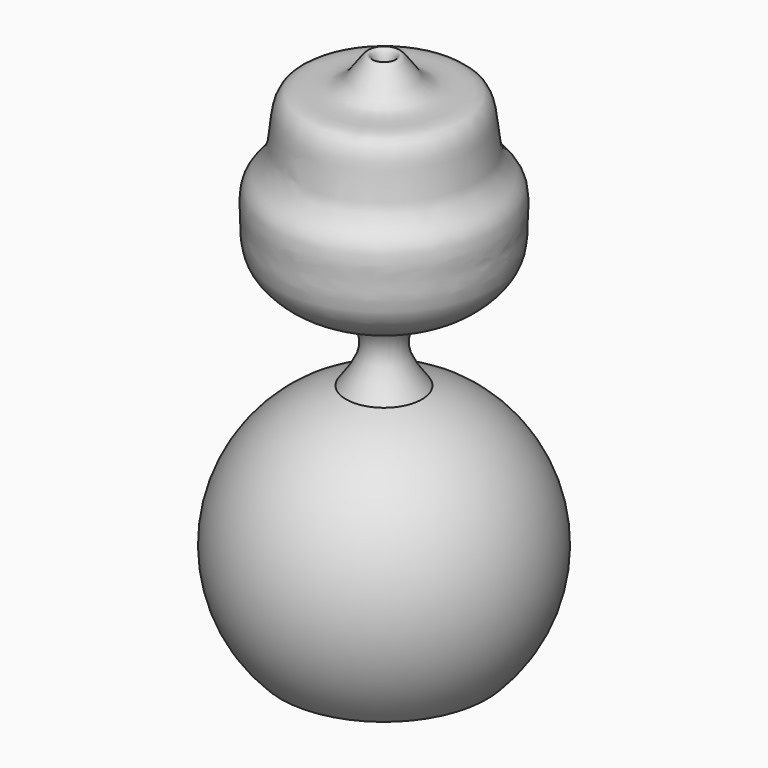
from build123d import *


with BuildPart() as f1:
    # F0 (on Front) → F1 (revolve)
    with BuildSketch(Plane.XZ):
        with BuildLine():
            add(Edge.make_bspline(
                [(-5.9928651899, 22.1841130406), (-4.5080595511, 24.1729786755), (-1.6440475237, 28.0092619913), (-5.6902031456, 34.3589118221), (-11.4500029604, 34.160477721), (-17.8487556724, 39.6887712131), (-17.6817960095, 44.9445614613), (-17.9901029315, 49.0834046797), (-17.0760471319, 51.4270557104), (-13.5812784297, 54.2396758498), (-14.6992502486, 65.2938819497), (-5.2566044436, 61.6222517873), (-1.6678934667, 72.0216084573), (0.331248267, 58.45761677), (-13.9864285748, 61.942619741), (-10.7468135738, 49.2918224993), (-17.927801853, 40.4186873662), (-1.0628107219, 40.2535463822), (1.0382541052, 19.5715787117), (-13.8150121485, 16.6469706363), (-17.7498880986, 7.8932207093), (-20.3880288285, -6.9428511795), (-16.8533673626, -10.3304141708), (-15.4552832246, -11.6703156382)],
                knots=[0, 0, 0, 0, 0.0453628839, 0.0874995633, 0.1284549286, 0.1765010741, 0.2159319397, 0.2507763395, 0.2770106739, 0.3129816409, 0.3629359947, 0.4085483459, 0.4505341128, 0.4950419809, 0.5478744076, 0.6024967218, 0.6505520588, 0.7088720744, 0.7770269089, 0.838180381, 0.8914571297, 0.95706744, 1, 1, 1, 1], degree=3))
            ThreePointArc((-5.9928651899, 22.1841130406), (-22.1899598853, 5.9711795209), (-16.3166157504, -16.1807711508))
            add(Edge.make_bspline(
                [(0, -16.1807711508), (-3.4899700829, -16.1807711508), (-12.8266456675, -16.1807711508), (-16.3166157504, -16.1807711508)],
                knots=[0, 0, 0, 0, 16.3166157504, 16.3166157504, 16.3166157504, 16.3166157504], degree=3))
            Line((0, -16.1807711508), (0, -11.6703156382))
            Line((0, -11.6703156382), (-15.4552832246, -11.6703156382))
        make_face()
    revolve(axis=Axis((0, 0, 21.1327318102), (0, 0, -1)))


solid = f1.part
